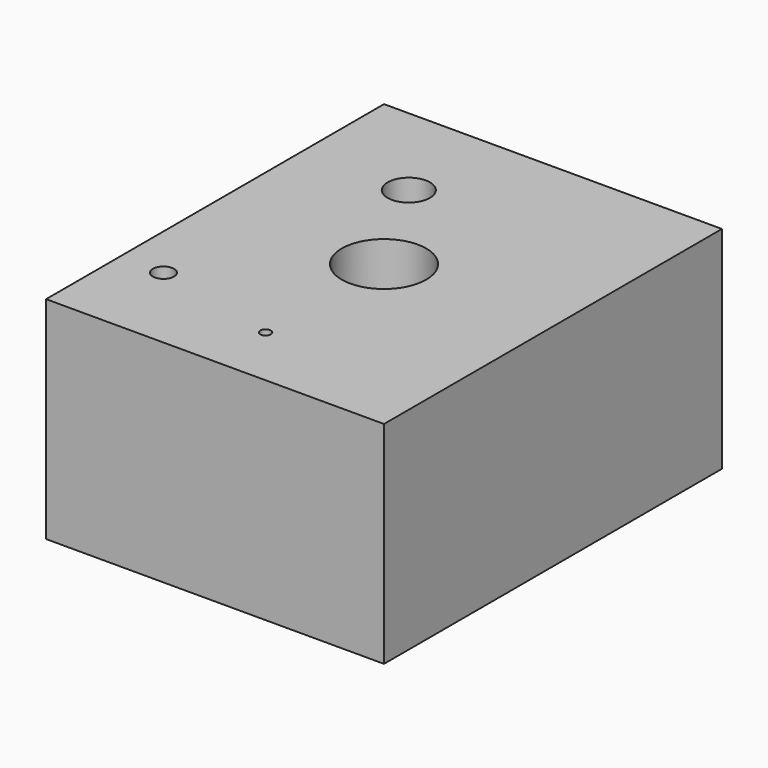
from build123d import *

# Parameters (mm, degrees)
F0_W     = 8
F0_H     = 10
F0_R     = 0.25
F0_R_2   = 0.125
F0_R_3   = 0.5
F0_R_4   = 1
F1_DEPTH = 5


with BuildPart() as f1:
    # F0 (on Top) → F1 (new body)
    with BuildSketch(Plane.XY):
        Rectangle(F0_W, F0_H)
        with Locations((-2.967931, -2.816962)):
            Circle(F0_R, mode=Mode.SUBTRACT)
        with Locations((0, -3.506055)):
            Circle(F0_R_2, mode=Mode.SUBTRACT)
        with Locations((-1.491301, 2.597348)):
            Circle(F0_R_3, mode=Mode.SUBTRACT)
        Circle(F0_R_4, mode=Mode.SUBTRACT)
    extrude(amount=F1_DEPTH)


solid = f1.part
